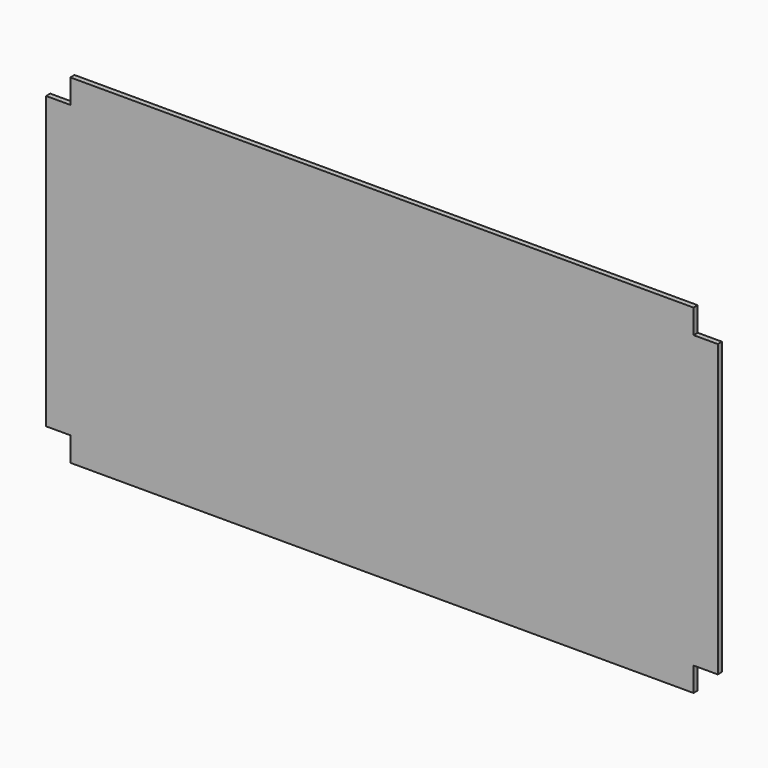
from build123d import *

# Parameters (mm, degrees)
F1_DEPTH = 19.05
F2_W     = 88.9
F2_H     = 88.9
F3_DEPTH = 25.4


with BuildPart() as f1:
    # F0 (on Front) → F1 (new body)
    with BuildSketch(Plane.XZ):
        Polygon((1231.9, 622.3), (0, 622.3), (-1231.9, 622.3), (-1231.9, 0), (-1231.9, -622.3), (0, -622.3), (1231.9, -622.3), (1231.9, 0), align=None)
    extrude(amount=F1_DEPTH)

    # F2 (on face) → F3 (cut)
    with BuildSketch(Plane.XZ.offset(19.05)):
        with Locations((-1187.45, 577.85)):
            Rectangle(F2_W, F2_H)
        with Locations((1187.45, 577.85)):
            Rectangle(F2_W, F2_H)
        with Locations((1187.45, -577.85)):
            Rectangle(F2_W, F2_H)
        with Locations((-1187.45, -577.85)):
            Rectangle(F2_W, F2_H)
    extrude(amount=-F3_DEPTH, mode=Mode.SUBTRACT)


solid = f1.part
